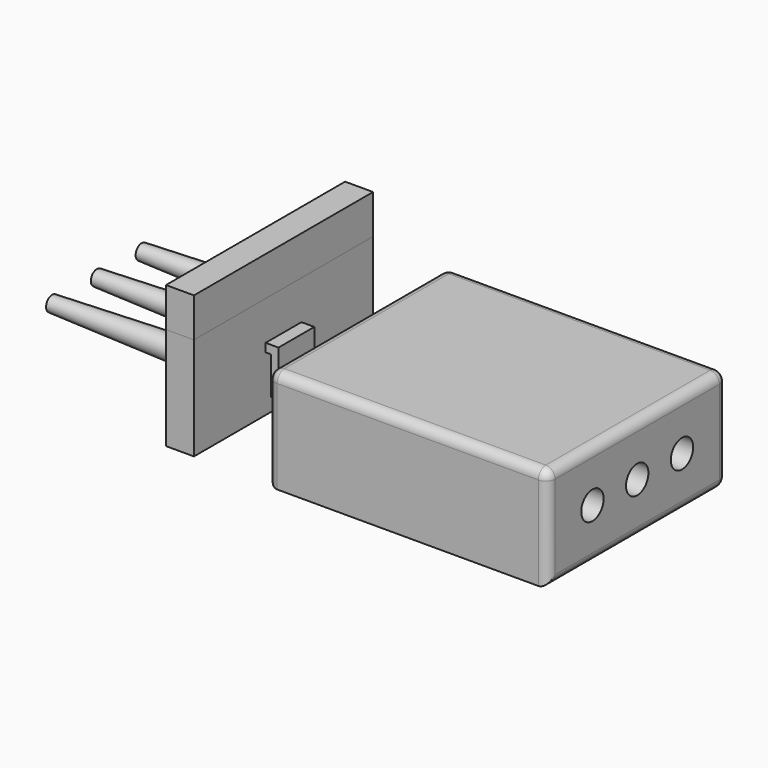
from build123d import *

# Parameters (mm, degrees)
F0_W      = 7.62
F0_H      = 60.96
F1_DEPTH  = 27.94
F0_W_2    = 76.2
F2_DEPTH  = 10.668
F4_DEPTH  = 43.688
F6_DEPTH  = 43.18
F6_TAPER  = 1.89
F7_R      = 2.54
F8_W      = 12.192
F8_H      = 2.286
F9_DEPTH  = 3.5052
F10_W     = 1.9812
F10_H     = 12.192
F11_DEPTH = 10.16


with BuildPart() as f1:
    # F0 (on Top) → F1 (new body)
    with BuildSketch(Plane.XY):
        Rectangle(F0_W, F0_H)
    extrude(amount=F1_DEPTH)


with BuildPart() as f1b:
    # F0 (on Top) → F1, piece 2 (new body)
    with BuildSketch(Plane.XY):
        with Locations((62.6656780899, -0.8255)):
            Rectangle(F0_W_2, F0_H)
    extrude(amount=F1_DEPTH)

    # F3 (on face) → F4 (cut)
    with BuildSketch(Plane.YZ.offset(100.7656780899)):
        with BuildLine():
            Line((-16.0655, 13.97), (-19.8755, 13.97))
            ThreePointArc((-19.8755, 13.97), (-16.0655, 10.16), (-12.2555, 13.97))
            Line((-12.2555, 13.97), (-16.0655, 13.97))
        make_face()
        with BuildLine():
            ThreePointArc((-12.2555, 13.97), (-16.0655, 17.78), (-19.8755, 13.97))
            Line((-19.8755, 13.97), (-16.0655, 13.97))
            Line((-16.0655, 13.97), (-12.2555, 13.97))
        make_face()
        with BuildLine():
            Line((-0.8255, 13.97), (-4.6355, 13.97))
            ThreePointArc((-4.6355, 13.97), (-0.8255, 10.16), (2.9845, 13.97))
            Line((2.9845, 13.97), (-0.8255, 13.97))
        make_face()
        with BuildLine():
            ThreePointArc((2.9845, 13.97), (-0.8255, 17.78), (-4.6355, 13.97))
            Line((-4.6355, 13.97), (-0.8255, 13.97))
            Line((-0.8255, 13.97), (2.9845, 13.97))
        make_face()
        with BuildLine():
            ThreePointArc((10.6045, 13.97), (14.4145, 10.16), (18.2245, 13.97))
            Line((18.2245, 13.97), (14.4145, 13.97))
            Line((14.4145, 13.97), (10.6045, 13.97))
        make_face()
        with BuildLine():
            Line((14.4145, 13.97), (18.2245, 13.97))
            ThreePointArc((18.2245, 13.97), (14.4145, 17.78), (10.6045, 13.97))
            Line((10.6045, 13.97), (14.4145, 13.97))
        make_face()
    extrude(amount=-F4_DEPTH, mode=Mode.SUBTRACT)

    # F7
    f7_edges = [f1b.edges().sort_by_distance(p)[0] for p in [
        (62.665678, -31.3055, 27.94),
        (100.765678, -31.3055, 13.97),
        (100.765678, -0.8255, 27.94),
        (100.765678, -0.8255, 0),
        (100.765678, 29.6545, 13.97),
        (24.565678, 29.6545, 13.97),
        (62.665678, 29.6545, 0),
        (62.665678, 29.6545, 27.94),
        (24.565678, -31.3055, 13.97),
        (24.565678, -0.8255, 0),
        (24.565678, -0.8255, 27.94),
    ]]
    fillet(f7_edges, radius=F7_R)


with BuildPart() as f2:
    # F2 (new): a face of the model
    f2_faces = [f1.part.faces().sort_by_distance(p)[0] for p in [
        (0, 0, 27.94),
    ]]
    extrude(f2_faces, amount=F2_DEPTH)


with BuildPart() as f1_1:
    add(f1.part)

    # F5 (on face) → F6 (join)
    with BuildSketch(Plane(origin=(-3.81, 0, 0), x_dir=(0, -1, 0), z_dir=(-1, 0, 0))):
        with BuildLine():
            ThreePointArc((-11.7475, 13.97), (-15.24, 17.4625), (-18.7325, 13.97))
            Line((-18.7325, 13.97), (-15.24, 13.97))
            Line((-15.24, 13.97), (-11.7475, 13.97))
        make_face()
        with BuildLine():
            ThreePointArc((18.7325, 13.97), (15.24, 17.4625), (11.7475, 13.97))
            Line((11.7475, 13.97), (15.24, 13.97))
            Line((15.24, 13.97), (18.7325, 13.97))
        make_face()
        with BuildLine():
            Line((15.24, 13.97), (11.7475, 13.97))
            ThreePointArc((11.7475, 13.97), (15.24, 10.4775), (18.7325, 13.97))
            Line((18.7325, 13.97), (15.24, 13.97))
        make_face()
        with BuildLine():
            ThreePointArc((3.4925, 13.97), (0, 17.4625), (-3.4925, 13.97))
            Line((-3.4925, 13.97), (0, 13.97))
            Line((0, 13.97), (3.4925, 13.97))
        make_face()
        with BuildLine():
            Line((0, 13.97), (-3.4925, 13.97))
            ThreePointArc((-3.4925, 13.97), (0, 10.4775), (3.4925, 13.97))
            Line((3.4925, 13.97), (0, 13.97))
        make_face()
        with BuildLine():
            Line((-15.24, 13.97), (-18.7325, 13.97))
            ThreePointArc((-18.7325, 13.97), (-15.24, 10.4775), (-11.7475, 13.97))
            Line((-11.7475, 13.97), (-15.24, 13.97))
        make_face()
    extrude(amount=F6_DEPTH, taper=F6_TAPER)

    # F8 (on face) → F9 (join)
    with BuildSketch(Plane.YZ.offset(3.81)):
        with Locations((0, 16.1798)):
            Rectangle(F8_W, F8_H)
    extrude(amount=F9_DEPTH)

    # F10 (on face) → F11 (join)
    with BuildSketch(Plane(origin=(0, 0, 15.0368), x_dir=(1, 0, 0), z_dir=(0, 0, -1))):
        with Locations((6.3246, 0)):
            Rectangle(F10_W, F10_H)
    extrude(amount=F11_DEPTH)


solid = Compound([f1b.part, f2.part, f1_1.part])
